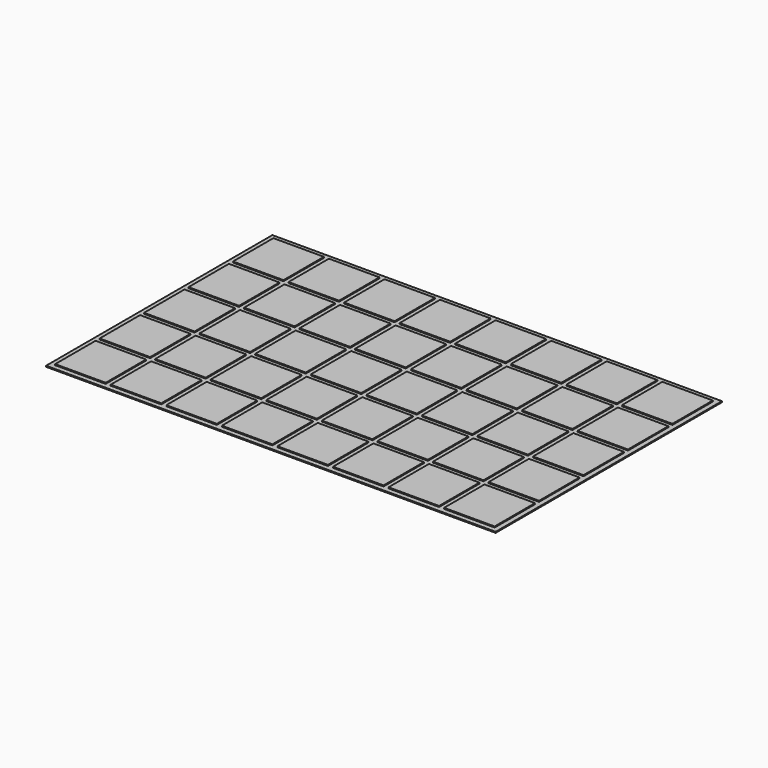
from build123d import *

# Parameters (mm, degrees)
F0_W     = 226.06
F0_H     = 142.24
F0_W_2   = 25.4
F0_H_2   = 25.4
F1_DEPTH = 0.508
F2_DEPTH = 1.016


with BuildPart() as f1:
    # F0 (on Top) → F1 (new body)
    with BuildSketch(Plane.XY):
        with Locations((12.174503, 18.332164)):
            Rectangle(F0_W, F0_H)
        with Locations((-85.615497, -37.547836)):
            Rectangle(F0_W_2, F0_H_2, mode=Mode.SUBTRACT)
        with Locations((-57.675497, -37.547836)):
            Rectangle(F0_W_2, F0_H_2, mode=Mode.SUBTRACT)
        with Locations((-29.735497, -37.547836)):
            Rectangle(F0_W_2, F0_H_2, mode=Mode.SUBTRACT)
        with Locations((-1.795497, -37.547836)):
            Rectangle(F0_W_2, F0_H_2, mode=Mode.SUBTRACT)
        with Locations((-85.615497, -9.607836)):
            Rectangle(F0_W_2, F0_H_2, mode=Mode.SUBTRACT)
        with Locations((-57.675497, -9.607836)):
            Rectangle(F0_W_2, F0_H_2, mode=Mode.SUBTRACT)
        with Locations((-85.615497, 18.332164)):
            Rectangle(F0_W_2, F0_H_2, mode=Mode.SUBTRACT)
        with Locations((-57.675497, 18.332164)):
            Rectangle(F0_W_2, F0_H_2, mode=Mode.SUBTRACT)
        with Locations((-29.735497, -9.607836)):
            Rectangle(F0_W_2, F0_H_2, mode=Mode.SUBTRACT)
        with Locations((-1.795497, -9.607836)):
            Rectangle(F0_W_2, F0_H_2, mode=Mode.SUBTRACT)
        with Locations((-29.735497, 18.332164)):
            Rectangle(F0_W_2, F0_H_2, mode=Mode.SUBTRACT)
        with Locations((-1.795497, 18.332164)):
            Rectangle(F0_W_2, F0_H_2, mode=Mode.SUBTRACT)
        with Locations((26.144503, -37.547836)):
            Rectangle(F0_W_2, F0_H_2, mode=Mode.SUBTRACT)
        with Locations((54.084503, -37.547836)):
            Rectangle(F0_W_2, F0_H_2, mode=Mode.SUBTRACT)
        with Locations((82.024503, -37.547836)):
            Rectangle(F0_W_2, F0_H_2, mode=Mode.SUBTRACT)
        with Locations((109.964503, -37.547836)):
            Rectangle(F0_W_2, F0_H_2, mode=Mode.SUBTRACT)
        with Locations((26.144503, -9.607836)):
            Rectangle(F0_W_2, F0_H_2, mode=Mode.SUBTRACT)
        with Locations((54.084503, -9.607836)):
            Rectangle(F0_W_2, F0_H_2, mode=Mode.SUBTRACT)
        with Locations((26.144503, 18.332164)):
            Rectangle(F0_W_2, F0_H_2, mode=Mode.SUBTRACT)
        with Locations((54.084503, 18.332164)):
            Rectangle(F0_W_2, F0_H_2, mode=Mode.SUBTRACT)
        with Locations((82.024503, -9.607836)):
            Rectangle(F0_W_2, F0_H_2, mode=Mode.SUBTRACT)
        with Locations((109.964503, -9.607836)):
            Rectangle(F0_W_2, F0_H_2, mode=Mode.SUBTRACT)
        with Locations((82.024503, 18.332164)):
            Rectangle(F0_W_2, F0_H_2, mode=Mode.SUBTRACT)
        with Locations((109.964503, 18.332164)):
            Rectangle(F0_W_2, F0_H_2, mode=Mode.SUBTRACT)
        with Locations((-85.615497, 46.272164)):
            Rectangle(F0_W_2, F0_H_2, mode=Mode.SUBTRACT)
        with Locations((-57.675497, 46.272164)):
            Rectangle(F0_W_2, F0_H_2, mode=Mode.SUBTRACT)
        with Locations((-29.735497, 46.272164)):
            Rectangle(F0_W_2, F0_H_2, mode=Mode.SUBTRACT)
        with Locations((-1.795497, 46.272164)):
            Rectangle(F0_W_2, F0_H_2, mode=Mode.SUBTRACT)
        with Locations((-85.615497, 74.212164)):
            Rectangle(F0_W_2, F0_H_2, mode=Mode.SUBTRACT)
        with Locations((-57.675497, 74.212164)):
            Rectangle(F0_W_2, F0_H_2, mode=Mode.SUBTRACT)
        with Locations((-29.735497, 74.212164)):
            Rectangle(F0_W_2, F0_H_2, mode=Mode.SUBTRACT)
        with Locations((-1.795497, 74.212164)):
            Rectangle(F0_W_2, F0_H_2, mode=Mode.SUBTRACT)
        with Locations((26.144503, 46.272164)):
            Rectangle(F0_W_2, F0_H_2, mode=Mode.SUBTRACT)
        with Locations((54.084503, 46.272164)):
            Rectangle(F0_W_2, F0_H_2, mode=Mode.SUBTRACT)
        with Locations((82.024503, 46.272164)):
            Rectangle(F0_W_2, F0_H_2, mode=Mode.SUBTRACT)
        with Locations((109.964503, 46.272164)):
            Rectangle(F0_W_2, F0_H_2, mode=Mode.SUBTRACT)
        with Locations((26.144503, 74.212164)):
            Rectangle(F0_W_2, F0_H_2, mode=Mode.SUBTRACT)
        with Locations((54.084503, 74.212164)):
            Rectangle(F0_W_2, F0_H_2, mode=Mode.SUBTRACT)
        with Locations((82.024503, 74.212164)):
            Rectangle(F0_W_2, F0_H_2, mode=Mode.SUBTRACT)
        with Locations((109.964503, 74.212164)):
            Rectangle(F0_W_2, F0_H_2, mode=Mode.SUBTRACT)
    extrude(amount=F1_DEPTH)

    # F0 (on Top) → F2 (join)
    with BuildSketch(Plane.XY):
        with Locations((-85.615497, 18.332164)):
            Rectangle(F0_W_2, F0_H_2)
        with Locations((-57.675497, 18.332164)):
            Rectangle(F0_W_2, F0_H_2)
        with Locations((-57.675497, 46.272164)):
            Rectangle(F0_W_2, F0_H_2)
        with Locations((-85.615497, 46.272164)):
            Rectangle(F0_W_2, F0_H_2)
        with Locations((-85.615497, 74.212164)):
            Rectangle(F0_W_2, F0_H_2)
        with Locations((-57.675497, 74.212164)):
            Rectangle(F0_W_2, F0_H_2)
        with Locations((-85.615497, -9.607836)):
            Rectangle(F0_W_2, F0_H_2)
        with Locations((-57.675497, -9.607836)):
            Rectangle(F0_W_2, F0_H_2)
        with Locations((-57.675497, -37.547836)):
            Rectangle(F0_W_2, F0_H_2)
        with Locations((-85.615497, -37.547836)):
            Rectangle(F0_W_2, F0_H_2)
        with Locations((-29.735497, -37.547836)):
            Rectangle(F0_W_2, F0_H_2)
        with Locations((-29.735497, -9.607836)):
            Rectangle(F0_W_2, F0_H_2)
        with Locations((-29.735497, 18.332164)):
            Rectangle(F0_W_2, F0_H_2)
        with Locations((-29.735497, 46.272164)):
            Rectangle(F0_W_2, F0_H_2)
        with Locations((-29.735497, 74.212164)):
            Rectangle(F0_W_2, F0_H_2)
        with Locations((-1.795497, 74.212164)):
            Rectangle(F0_W_2, F0_H_2)
        with Locations((-1.795497, 46.272164)):
            Rectangle(F0_W_2, F0_H_2)
        with Locations((-1.795497, 18.332164)):
            Rectangle(F0_W_2, F0_H_2)
        with Locations((-1.795497, -9.607836)):
            Rectangle(F0_W_2, F0_H_2)
        with Locations((-1.795497, -37.547836)):
            Rectangle(F0_W_2, F0_H_2)
        with Locations((26.144503, -37.547836)):
            Rectangle(F0_W_2, F0_H_2)
        with Locations((26.144503, -9.607836)):
            Rectangle(F0_W_2, F0_H_2)
        with Locations((26.144503, 18.332164)):
            Rectangle(F0_W_2, F0_H_2)
        with Locations((26.144503, 46.272164)):
            Rectangle(F0_W_2, F0_H_2)
        with Locations((26.144503, 74.212164)):
            Rectangle(F0_W_2, F0_H_2)
        with Locations((54.084503, 74.212164)):
            Rectangle(F0_W_2, F0_H_2)
        with Locations((54.084503, 46.272164)):
            Rectangle(F0_W_2, F0_H_2)
        with Locations((54.084503, 18.332164)):
            Rectangle(F0_W_2, F0_H_2)
        with Locations((54.084503, -9.607836)):
            Rectangle(F0_W_2, F0_H_2)
        with Locations((54.084503, -37.547836)):
            Rectangle(F0_W_2, F0_H_2)
        with Locations((82.024503, -37.547836)):
            Rectangle(F0_W_2, F0_H_2)
        with Locations((82.024503, -9.607836)):
            Rectangle(F0_W_2, F0_H_2)
        with Locations((82.024503, 18.332164)):
            Rectangle(F0_W_2, F0_H_2)
        with Locations((82.024503, 46.272164)):
            Rectangle(F0_W_2, F0_H_2)
        with Locations((82.024503, 74.212164)):
            Rectangle(F0_W_2, F0_H_2)
        with Locations((109.964503, 74.212164)):
            Rectangle(F0_W_2, F0_H_2)
        with Locations((109.964503, 46.272164)):
            Rectangle(F0_W_2, F0_H_2)
        with Locations((109.964503, 18.332164)):
            Rectangle(F0_W_2, F0_H_2)
        with Locations((109.964503, -9.607836)):
            Rectangle(F0_W_2, F0_H_2)
        with Locations((109.964503, -37.547836)):
            Rectangle(F0_W_2, F0_H_2)
    extrude(amount=F2_DEPTH)


solid = f1.part
